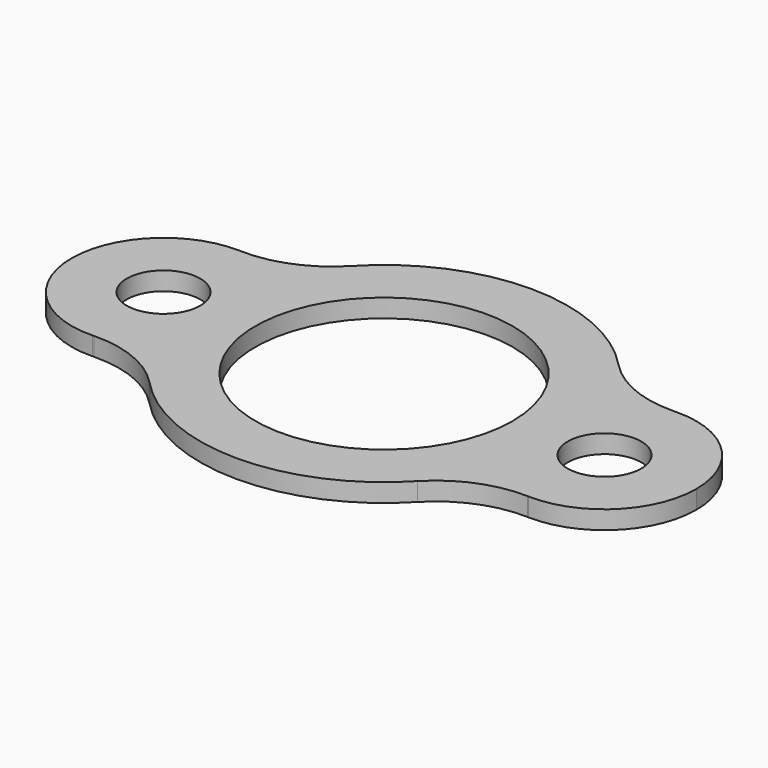
from build123d import *

# Parameters (mm, degrees)
F0_R     = 12.7
F1_DEPTH = 6.35


with BuildPart() as f1:
    # F0 (on Top) → F1 (new body)
    with BuildSketch(Plane.XY):
        with BuildLine():
            ThreePointArc((-57.94375, 25.976370723), (-52.8530385151, 35.1966805213), (-46.3083103346, 43.4487099228))
            ThreePointArc((-46.3083103346, 43.4487099228), (-59.3557480022, 34.5595657373), (-74.8865363941, 31.7228200726))
            ThreePointArc((-74.8865363941, 31.7228200726), (-66.002017715, 30.0676513435), (-57.94375, 25.976370723))
        make_face()
        with BuildLine():
            ThreePointArc((-44.45, 0), (-48.024670033, 14.636026826), (-57.94375, 25.976370723))
            ThreePointArc((-57.94375, 25.976370723), (-62.0954029096, 13.2819779212), (-63.5, 0))
            ThreePointArc((-63.5, 0), (-62.0954029096, -13.2819779212), (-57.94375, -25.976370723))
            ThreePointArc((-57.94375, -25.976370723), (-48.024670033, -14.636026826), (-44.45, 0))
        make_face()
        with BuildLine():
            ThreePointArc((-63.5, 0), (-62.0954029096, 13.2819779212), (-57.94375, 25.976370723))
            ThreePointArc((-57.94375, 25.976370723), (-66.002017715, 30.0676513435), (-74.8865363941, 31.7228200726))
            ThreePointArc((-74.8865363941, 31.7228200726), (-75.1174911921, 31.7299983006), (-75.3483982089, 31.7385770694))
            ThreePointArc((-75.3483982089, 31.7385770694), (-107.95, 0), (-75.3483982089, -31.7385770694))
            ThreePointArc((-75.3483982089, -31.7385770694), (-75.1174911921, -31.7299983006), (-74.8865363941, -31.7228200726))
            ThreePointArc((-74.8865363941, -31.7228200726), (-66.002017715, -30.0676513435), (-57.94375, -25.976370723))
            ThreePointArc((-57.94375, -25.976370723), (-62.0954029096, -13.2819779212), (-63.5, 0))
        make_face()
        with Locations((-76.2, 0)):
            Circle(F0_R, mode=Mode.SUBTRACT)
        with BuildLine():
            ThreePointArc((57.94375, -25.976370723), (48.024670033, -14.636026826), (44.45, 0))
            ThreePointArc((44.45, 0), (0, -44.45), (-44.45, 0))
            ThreePointArc((-44.45, 0), (-48.024670033, -14.636026826), (-57.94375, -25.976370723))
            ThreePointArc((-57.94375, -25.976370723), (-52.8530385151, -35.1966805213), (-46.3083103346, -43.4487099228))
            ThreePointArc((-46.3083103346, -43.4487099228), (0, -63.5), (46.3083103346, -43.4487099228))
            ThreePointArc((46.3083103346, -43.4487099228), (52.8530385151, -35.1966805213), (57.94375, -25.976370723))
        make_face()
        with BuildLine():
            ThreePointArc((-46.3083103346, -43.4487099228), (-52.8530385151, -35.1966805213), (-57.94375, -25.976370723))
            ThreePointArc((-57.94375, -25.976370723), (-66.002017715, -30.0676513435), (-74.8865363941, -31.7228200726))
            ThreePointArc((-74.8865363941, -31.7228200726), (-59.3557480022, -34.5595657373), (-46.3083103346, -43.4487099228))
        make_face()
        with BuildLine():
            ThreePointArc((57.94375, 25.976370723), (52.8530385151, 35.1966805213), (46.3083103346, 43.4487099228))
            ThreePointArc((46.3083103346, 43.4487099228), (0, 63.5), (-46.3083103346, 43.4487099228))
            ThreePointArc((-46.3083103346, 43.4487099228), (-52.8530385151, 35.1966805213), (-57.94375, 25.976370723))
            ThreePointArc((-57.94375, 25.976370723), (-48.024670033, 14.636026826), (-44.45, 0))
            ThreePointArc((-44.45, 0), (0, 44.45), (44.45, 0))
            ThreePointArc((44.45, 0), (48.024670033, 14.636026826), (57.94375, 25.976370723))
        make_face()
        with BuildLine():
            ThreePointArc((63.5, 0), (62.0954029096, 13.2819779212), (57.94375, 25.976370723))
            ThreePointArc((57.94375, 25.976370723), (48.024670033, 14.636026826), (44.45, 0))
            ThreePointArc((44.45, 0), (48.024670033, -14.636026826), (57.94375, -25.976370723))
            ThreePointArc((57.94375, -25.976370723), (62.0954029096, -13.2819779212), (63.5, 0))
        make_face()
        with BuildLine():
            ThreePointArc((74.8865363941, 31.7228200726), (66.002017715, 30.0676513435), (57.94375, 25.976370723))
            ThreePointArc((57.94375, 25.976370723), (62.0954029096, 13.2819779212), (63.5, 0))
            ThreePointArc((63.5, 0), (62.0954029096, -13.2819779212), (57.94375, -25.976370723))
            ThreePointArc((57.94375, -25.976370723), (66.002017715, -30.0676513435), (74.8865363941, -31.7228200726))
            ThreePointArc((74.8865363941, -31.7228200726), (75.1174911921, -31.7299983006), (75.3483982089, -31.7385770694))
            ThreePointArc((75.3483982089, -31.7385770694), (98.3475071186, -22.7497346893), (107.95, 0))
            ThreePointArc((107.95, 0), (98.3475071186, 22.7497346893), (75.3483982089, 31.7385770694))
            ThreePointArc((75.3483982089, 31.7385770694), (75.1174911921, 31.7299983006), (74.8865363941, 31.7228200726))
        make_face()
        with BuildLine():
            ThreePointArc((88.9, 0), (76.2, -12.7), (63.5, 0))
            ThreePointArc((63.5, 0), (76.2, 12.7), (88.9, 0))
        make_face(mode=Mode.SUBTRACT)
        with BuildLine():
            ThreePointArc((74.8865363941, 31.7228200726), (59.3557480022, 34.5595657373), (46.3083103346, 43.4487099228))
            ThreePointArc((46.3083103346, 43.4487099228), (52.8530385151, 35.1966805213), (57.94375, 25.976370723))
            ThreePointArc((57.94375, 25.976370723), (66.002017715, 30.0676513435), (74.8865363941, 31.7228200726))
        make_face()
        with BuildLine():
            ThreePointArc((74.8865363941, -31.7228200726), (66.002017715, -30.0676513435), (57.94375, -25.976370723))
            ThreePointArc((57.94375, -25.976370723), (52.8530385151, -35.1966805213), (46.3083103346, -43.4487099228))
            ThreePointArc((46.3083103346, -43.4487099228), (59.3557480022, -34.5595657373), (74.8865363941, -31.7228200726))
        make_face()
    extrude(amount=F1_DEPTH)


solid = f1.part
